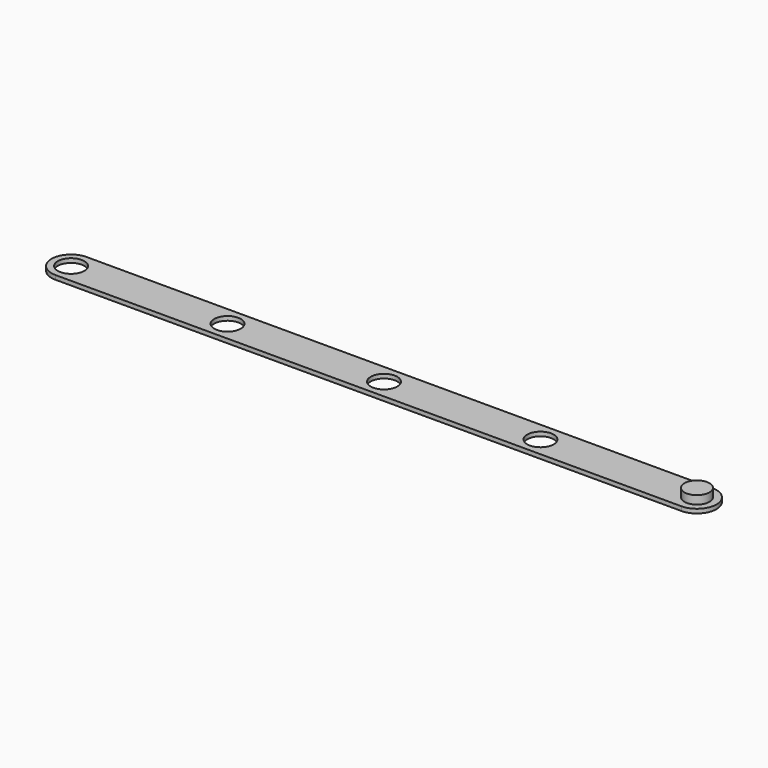
from build123d import *

# Parameters (mm, degrees)
F0_R     = 6.35
F1_DEPTH = 2
F2_DEPTH = 6


with BuildPart() as f1:
    # F0 (on Top) → F1 (new body)
    with BuildSketch(Plane.XY):
        with BuildLine():
            ThreePointArc((-6, 0), (0, -6), (6, 0))
            ThreePointArc((6, 0), (0, 6), (-6, 0))
        make_face()
        with Locations((-300, 0)):
            Circle(F0_R)
        with BuildLine():
            Line((0, 9.35), (-300, 9.35))
            ThreePointArc((-300, 9.35), (-309.35, 0), (-300, -9.35))
            Line((-300, -9.35), (0, -9.349931))
            ThreePointArc((0, -9.349931), (9.349963, 3.5e-05), (0, 9.35))
        make_face()
        with Locations((-300, 0)):
            Circle(F0_R, mode=Mode.SUBTRACT)
        with BuildLine():
            ThreePointArc((-231.35, 0), (-225, 6.35), (-218.65, 0))
            ThreePointArc((-218.65, 0), (-225, -6.35), (-231.35, 0))
        make_face(mode=Mode.SUBTRACT)
        with BuildLine():
            ThreePointArc((-156.35, 0), (-150, 6.35), (-143.65, 0))
            ThreePointArc((-143.65, 0), (-150, -6.35), (-156.35, 0))
        make_face(mode=Mode.SUBTRACT)
        with BuildLine():
            ThreePointArc((-81.35, 0), (-75, 6.35), (-68.65, 0))
            ThreePointArc((-68.65, 0), (-75, -6.35), (-81.35, 0))
        make_face(mode=Mode.SUBTRACT)
        with BuildLine():
            ThreePointArc((-6, 0), (0, 6), (6, 0))
            ThreePointArc((6, 0), (0, -6), (-6, 0))
        make_face(mode=Mode.SUBTRACT)
    extrude(amount=F1_DEPTH)

    # F0 (on Top) → F2 (join)
    with BuildSketch(Plane.XY):
        with BuildLine():
            ThreePointArc((-6, 0), (0, -6), (6, 0))
            ThreePointArc((6, 0), (0, 6), (-6, 0))
        make_face()
    extrude(amount=F2_DEPTH)


solid = f1.part
